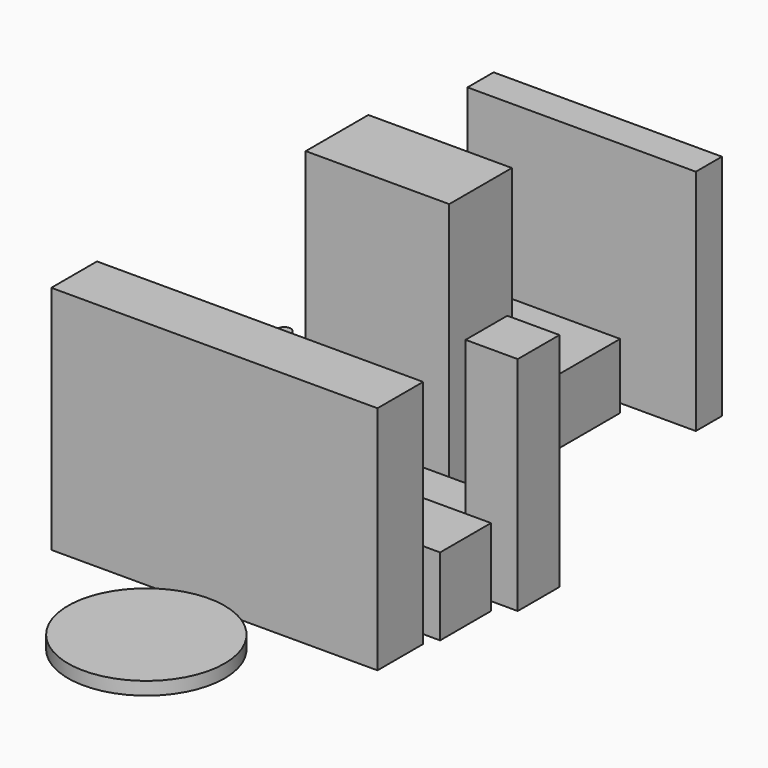
from build123d import *

# Parameters (mm, degrees)
F1_DEPTH  = 603.25
F2_DEPTH  = 1797.05
F0_W      = 1727.2
F0_H      = 850.9
F0_R      = 50.8
F3_DEPTH  = 177.8
F4_DEPTH  = 812.8
F0_W_2    = 1117.6
F0_H_2    = 609.6
F5_DEPTH  = 1981.2
F0_W_3    = 1168.4
F0_H_3    = 762
F6_DEPTH  = 508
F0_W_4    = 1778
F0_H_4    = 254
F7_DEPTH  = 1778
F8_DEPTH  = 508
F0_W_5    = 406.4
F0_H_5    = 406.4
F9_DEPTH  = 1727.2
F0_R_2    = 609.6
F10_DEPTH = 101.6


with BuildPart() as f1:
    # F0 (on Top) → F1 (new body)
    with BuildSketch(Plane.XY):
        Polygon((-1320.8, 546.1), (-1320.8, 50.8), (0, 50.8), (1320.8, 50.8), (1320.8, 546.1), align=None)
    extrude(amount=F1_DEPTH)


with BuildPart() as f2:
    # F0 (on Top) → F2 (new body)
    with BuildSketch(Plane.XY):
        Polygon((1270, -50.8), (0, -50.8), (-1270, -50.8), (-1270, -495.3), (1270, -495.3), align=None)
    extrude(amount=F2_DEPTH)


with BuildPart() as f3:
    # F0 (on Top) → F3 (new body)
    with BuildSketch(Plane.XY):
        with Locations((-203.2, 1073.15)):
            Rectangle(F0_W, F0_H)
        with Locations((-990.6, 723.9)):
            Circle(F0_R, mode=Mode.SUBTRACT)
        with Locations((584.2, 723.9)):
            Circle(F0_R, mode=Mode.SUBTRACT)
        with Locations((-990.6, 1422.4)):
            Circle(F0_R, mode=Mode.SUBTRACT)
        with Locations((584.2, 1422.4)):
            Circle(F0_R, mode=Mode.SUBTRACT)
    extrude(amount=F3_DEPTH)

    # F0 (on Top) → F4 (join)
    with BuildSketch(Plane.XY):
        with Locations((-990.6, 1422.4)):
            Circle(F0_R)
        with Locations((584.2, 1422.4)):
            Circle(F0_R)
        with Locations((-990.6, 723.9)):
            Circle(F0_R)
        with Locations((584.2, 723.9)):
            Circle(F0_R)
    extrude(amount=F4_DEPTH)


with BuildPart() as f5:
    # F0 (on Top) → F5 (new body)
    with BuildSketch(Plane.XY):
        with Locations((-406.4, 1905)):
            Rectangle(F0_W_2, F0_H_2)
    extrude(amount=F5_DEPTH)


with BuildPart() as f6:
    # F0 (on Top) → F6 (new body)
    with BuildSketch(Plane.XY):
        with Locations((-279.4, 2692.4)):
            Rectangle(F0_W_3, F0_H_3)
    extrude(amount=F6_DEPTH)


with BuildPart() as f7:
    # F0 (on Top) → F7 (new body)
    with BuildSketch(Plane.XY):
        with Locations((-76.2, 3302)):
            Rectangle(F0_W_4, F0_H_4)
    extrude(amount=F7_DEPTH)


with BuildPart() as f8:
    # F0 (on Top) → F8 (new body)
    with BuildSketch(Plane.XY):
        Polygon((-863.6, 4521.2), (-863.6, 3530.6), (-787.4, 3530.6), (-787.4, 3962.4), (-406.4, 3962.4), (-406.4, 3530.6), (-330.2, 3530.6), (-330.2, 4064), (-736.6, 4064), (-736.6, 4521.2), align=None)
    extrude(amount=F8_DEPTH)


with BuildPart() as f9:
    # F0 (on Top) → F9 (new body)
    with BuildSketch(Plane.XY):
        with Locations((1244.6, 850.9)):
            Rectangle(F0_W_5, F0_H_5)
    extrude(amount=F9_DEPTH)


with BuildPart() as f10:
    # F0 (on Top) → F10 (new body)
    with BuildSketch(Plane.XY):
        with Locations((0, -1157.865405)):
            Circle(F0_R_2)
    extrude(amount=F10_DEPTH)


solid = Compound([f1.part, f2.part, f3.part, f5.part, f6.part, f7.part, f8.part, f9.part, f10.part])
